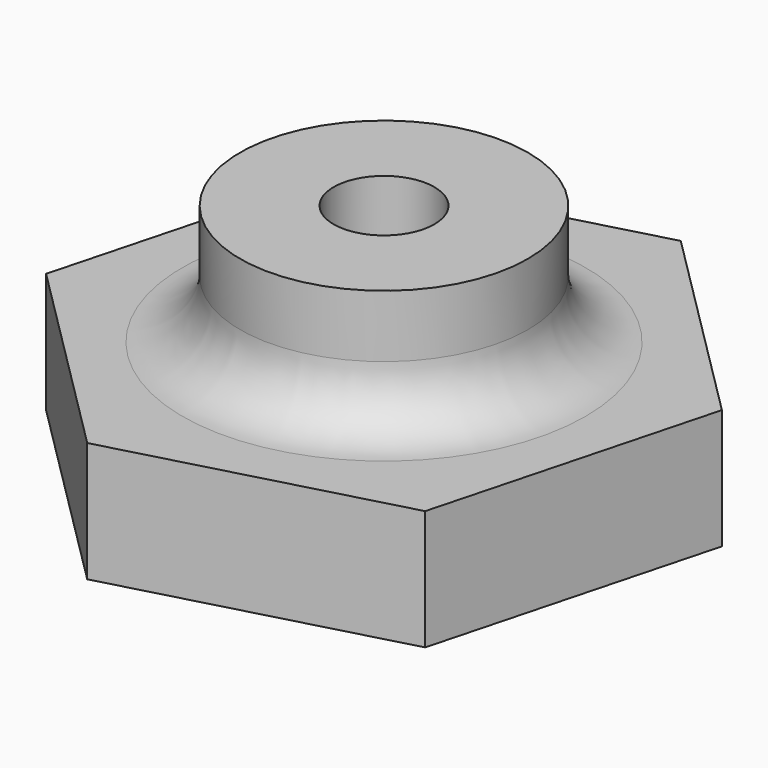
from build123d import *

# Parameters (mm, degrees)
F0_R     = 3
F0_R_2   = 1.05
F1_DEPTH = 2.5
F2_DEPTH = 5
F3_R     = 1.2


with BuildPart() as f1:
    # F0 (on Top) → F1 (new body)
    with BuildSketch(Plane.XY):
        Polygon((1.545967, 5.797412), (-4.247722, 4.237553), (-5.79369, -1.559859), (-1.545967, -5.797412), (4.247722, -4.237553), (5.79369, 1.559859), align=None)
        Circle(F0_R, mode=Mode.SUBTRACT)
        Circle(F0_R)
        Circle(F0_R_2, mode=Mode.SUBTRACT)
    extrude(amount=F1_DEPTH)

    # F0 (on Top) → F2 (join)
    with BuildSketch(Plane.XY):
        Circle(F0_R)
        Circle(F0_R_2, mode=Mode.SUBTRACT)
    extrude(amount=F2_DEPTH)

    # F3
    f3_edges = [f1.edges().sort_by_distance(p)[0] for p in [
        (-3, 0, 2.5),
    ]]
    fillet(f3_edges, radius=F3_R)


solid = f1.part
